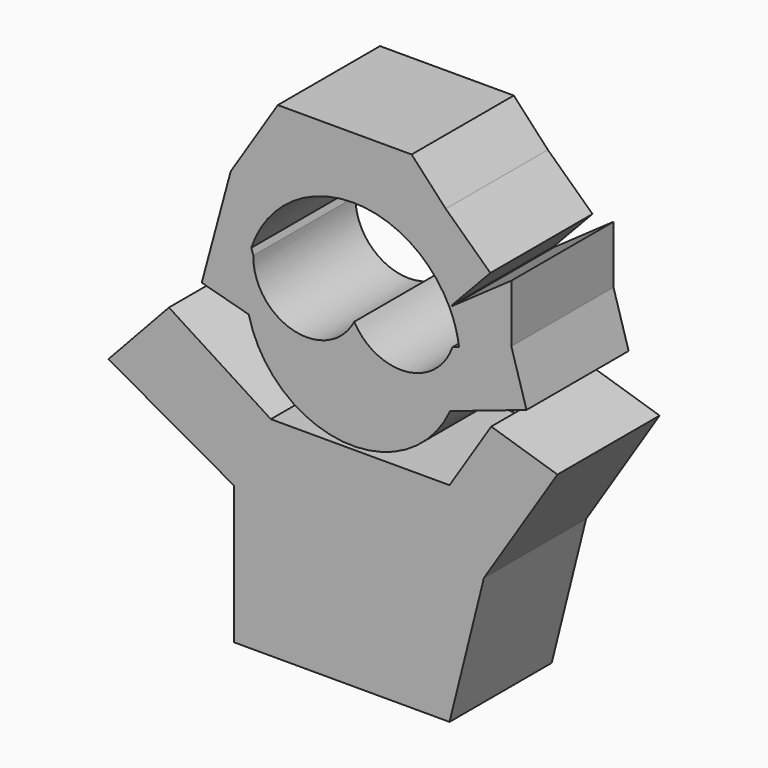
from build123d import *

# Parameters (mm, degrees)
F1_DEPTH = 25.4


with BuildPart() as f1:
    # F0 (on Front) → F1 (new body)
    with BuildSketch(Plane.XZ):
        Polygon((-23.62200059, 0), (0, 0), (19.2308662238, 0), (26.0686170509, 27.4320002645), (40.6908020377, 50.2920038998), (27.5239792833, 54.4180739722), (19.2308662238, 41.4528027177), (-16.3068007678, 41.4528027177), (-36.576421777, 54.4180739722), (-48.6156009138, 41.4528027177), (-23.62200059, 27.4320002645), align=None)
    extrude(amount=F1_DEPTH)


with BuildPart() as f1b:
    # F0 (on Front) → F1, piece 2 (new body)
    with BuildSketch(Plane.XZ):
        with BuildLine():
            Line((0, 96.9018787146), (0, 84.7109772533))
            ThreePointArc((0, 84.7109772533), (8.0887105139, 83.1163795191), (14.9670335302, 78.5712005131))
            ThreePointArc((14.9670335302, 78.5712005131), (17.7869181467, 76.2294399221), (19.6568659528, 73.0768398653))
            Line((19.6568659528, 73.0768398653), (27.3466389626, 81.2472254038))
            Line((27.3466389626, 81.2472254038), (18.4756647795, 89.596375823))
            Line((18.4756647795, 89.596375823), (11.6919819266, 96.9018787146))
            Line((11.6919819266, 96.9018787146), (0, 96.9018787146))
        make_face()
        with BuildLine():
            ThreePointArc((-9.948122377, 82.2467638002), (-5.1243898849, 84.0857531273), (0, 84.7109772533))
            Line((0, 84.7109772533), (0, 96.9018787146))
            Line((0, 96.9018787146), (-14.9209313095, 96.9018787146))
            Line((-14.9209313095, 96.9018787146), (-9.948122377, 82.2467638002))
        make_face()
        Polygon((-13.8192764801, 80.2035778761), (-9.948122377, 82.2467638002), (-14.9209313095, 96.9018787146), align=None)
        with BuildLine():
            ThreePointArc((-20.2026423914, 70.1865687035), (-16.236663157, 77.2040778842), (-9.948122377, 82.2467638002))
            Line((-9.948122377, 82.2467638002), (-13.8192764801, 80.2035778761))
            Line((-13.8192764801, 80.2035778761), (-14.9209313095, 96.9018787146))
            Line((-14.9209313095, 96.9018787146), (-24.2949368739, 82.2467638002))
            Line((-24.2949368739, 82.2467638002), (-20.2026423914, 70.1865687035))
        make_face()
        with BuildLine():
            ThreePointArc((19.6568659528, 73.0768398653), (17.7869181467, 76.2294399221), (14.9670335302, 78.5712005131))
            ThreePointArc((14.9670335302, 78.5712005131), (17.3506164183, 75.7750751038), (19.2185318233, 72.6111097549))
            Line((19.2185318233, 72.6111097549), (19.6568659528, 73.0768398653))
        make_face()
        with BuildLine():
            Line((-19.7913802799, 68.9745588341), (-20.2026423914, 70.1865687035))
            ThreePointArc((-20.2026423914, 70.1865687035), (-21.2931615301, 64.3079516005), (-20.7079189977, 58.3577530985))
            ThreePointArc((-20.7079189977, 58.3577530985), (-2.0630065867, 42.1859017014), (19.3485995426, 54.4620843079))
            ThreePointArc((19.3485995426, 54.4620843079), (20.8157940898, 58.8236054279), (21.3125787944, 63.398398459))
            ThreePointArc((21.3125787944, 63.398398459), (21.265000821, 64.8216886427), (21.1224793262, 66.2386241509))
            Line((21.1224793262, 66.2386241509), (19.7912565965, 65.7869104441))
            ThreePointArc((19.7912565965, 65.7869104441), (10.6418263873, 58.5378022501), (0.2712324419, 63.8961997703))
            ThreePointArc((0.2712324419, 63.8961997703), (-11.7852893274, 58.434544405), (-19.7913802799, 68.9745588341))
        make_face()
        with BuildLine():
            ThreePointArc((-20.7079189977, 58.3577530985), (-21.2931615301, 64.3079516005), (-20.2026423914, 70.1865687035))
            Line((-20.2026423914, 70.1865687035), (-24.2949368739, 82.2467638002))
            Line((-24.2949368739, 82.2467638002), (-30.0537664443, 60.8762271827))
            Line((-30.0537664443, 60.8762271827), (-20.7079189977, 58.3577530985))
        make_face()
        with BuildLine():
            Line((19.703686339, 72.9516737897), (19.2185318233, 72.6111097549))
            ThreePointArc((19.2185318233, 72.6111097549), (19.8375742983, 71.1892046318), (20.3515811404, 69.7260488878))
            ThreePointArc((20.3515811404, 69.7260488878), (20.1516763709, 71.3637763795), (19.703686339, 72.9516737897))
        make_face()
        with BuildLine():
            Line((19.6568659528, 73.0768398653), (19.2185318233, 72.6111097549))
            Line((19.2185318233, 72.6111097549), (19.703686339, 72.9516737897))
            ThreePointArc((19.703686339, 72.9516737897), (19.6804705069, 73.0143295314), (19.6568659528, 73.0768398653))
        make_face()
        with BuildLine():
            ThreePointArc((19.703686339, 72.9516737897), (20.1516763709, 71.3637763795), (20.3515811404, 69.7260488878))
            ThreePointArc((20.3515811404, 69.7260488878), (20.8102127745, 67.998513582), (21.1224793262, 66.2386241509))
            Line((21.1224793262, 66.2386241509), (31.5212123096, 69.7671473026))
            Line((31.5212123096, 69.7671473026), (31.5212123096, 81.2472254038))
            Line((31.5212123096, 81.2472254038), (19.703686339, 72.9516737897))
        make_face()
        with BuildLine():
            ThreePointArc((21.3125787944, 63.398398459), (20.8157940898, 58.8236054279), (19.3485995426, 54.4620843079))
            Line((19.3485995426, 54.4620843079), (34.5381007645, 59.6016766094))
            Line((34.5381007645, 59.6016766094), (31.5212123096, 69.7671473026))
            Line((31.5212123096, 69.7671473026), (21.1224793262, 66.2386241509))
            ThreePointArc((21.1224793262, 66.2386241509), (21.265000821, 64.8216886427), (21.3125787944, 63.398398459))
        make_face()
    extrude(amount=F1_DEPTH)


solid = Compound([f1.part, f1b.part])
